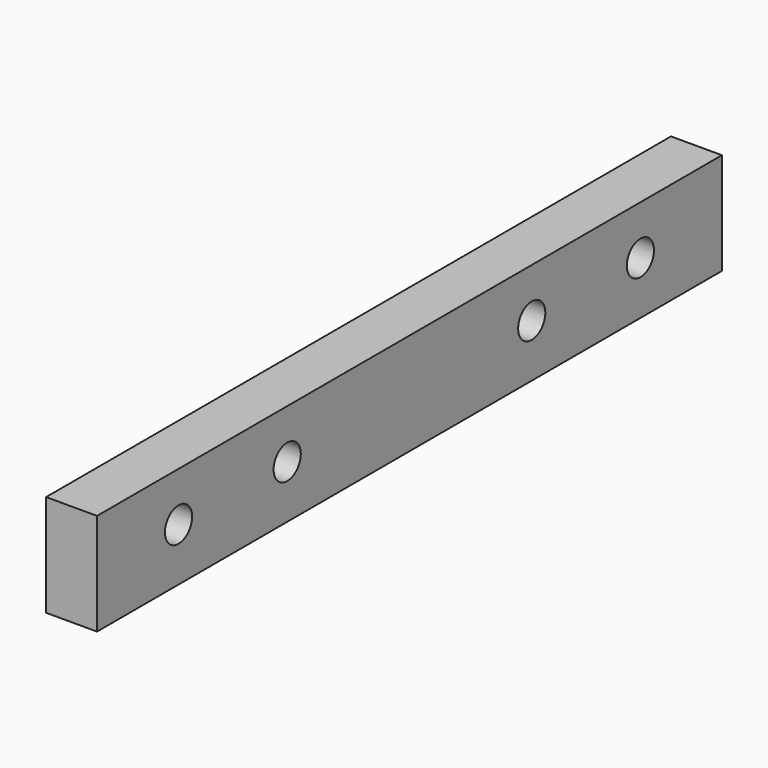
from build123d import *

# Parameters (mm, degrees)
F0_W     = 292.1
F0_H     = 38.1
F0_R     = 6.35
F1_DEPTH = 19.05


with BuildPart() as f1:
    # F0 (on Right) → F1 (new body)
    with BuildSketch(Plane.YZ):
        with Locations((122.403664, -0.722672)):
            Rectangle(F0_W, F0_H)
        with Locations((14.453664, 0)):
            Circle(F0_R, mode=Mode.SUBTRACT)
        with Locations((65.253664, 0)):
            Circle(F0_R, mode=Mode.SUBTRACT)
        with Locations((179.553664, 0)):
            Circle(F0_R, mode=Mode.SUBTRACT)
        with Locations((230.353664, 0)):
            Circle(F0_R, mode=Mode.SUBTRACT)
    extrude(amount=F1_DEPTH)


solid = f1.part
